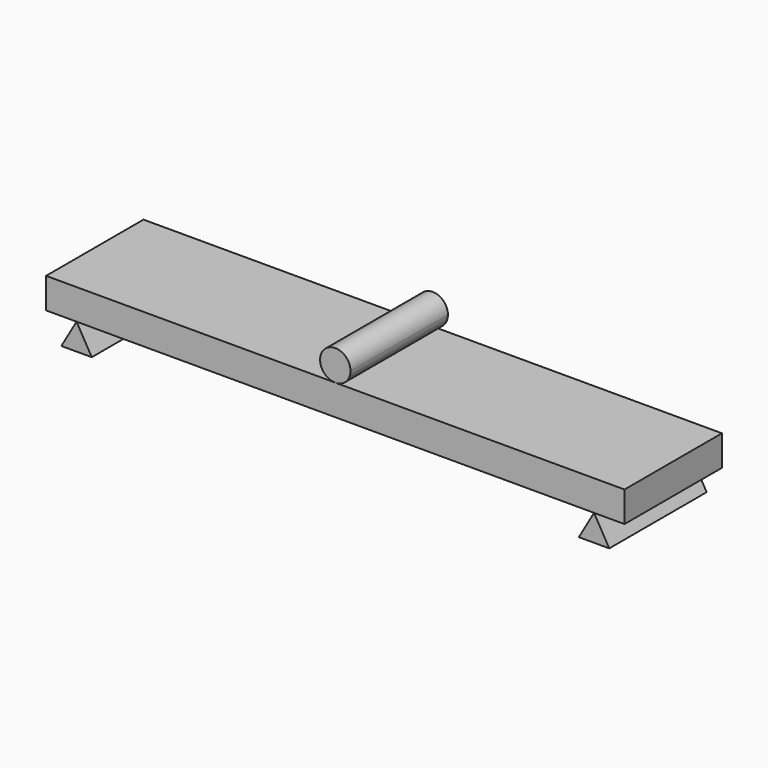
from build123d import *

# Parameters (mm, degrees)
F0_W     = 95
F0_H     = 5
F1_DEPTH = 20
F4_DEPTH = 20
F6_DEPTH = 20
F7_DEPTH = 20


with BuildPart() as f1:
    # F0 (on Front) → F1 (new body)
    with BuildSketch(Plane.XZ):
        Rectangle(F0_W, F0_H)
    extrude(amount=-F1_DEPTH)

    # F3 (on face) → F4 (join)
    with BuildSketch(Plane.XZ):
        with BuildLine():
            ThreePointArc((0, 2.5), (1.767767, 3.232233), (2.5, 5))
            ThreePointArc((2.5, 5), (-1.767767, 6.767767), (0, 2.5))
        make_face()
    extrude(amount=-F4_DEPTH)


with BuildPart() as f6:
    # F5 (on Front) → F6 (new body)
    with BuildSketch(Plane.XZ):
        Polygon((-45, -6.830127), (-40, -6.830127), (-42.5, -2.5), align=None)
    extrude(amount=-F6_DEPTH)


with BuildPart() as f7:
    # F5 (on Front) → F7 (new body)
    with BuildSketch(Plane.XZ):
        Polygon((40, -6.830127), (45, -6.830127), (42.5, -2.5), align=None)
    extrude(amount=-F7_DEPTH)


solid = Compound([f1.part, f6.part, f7.part])
